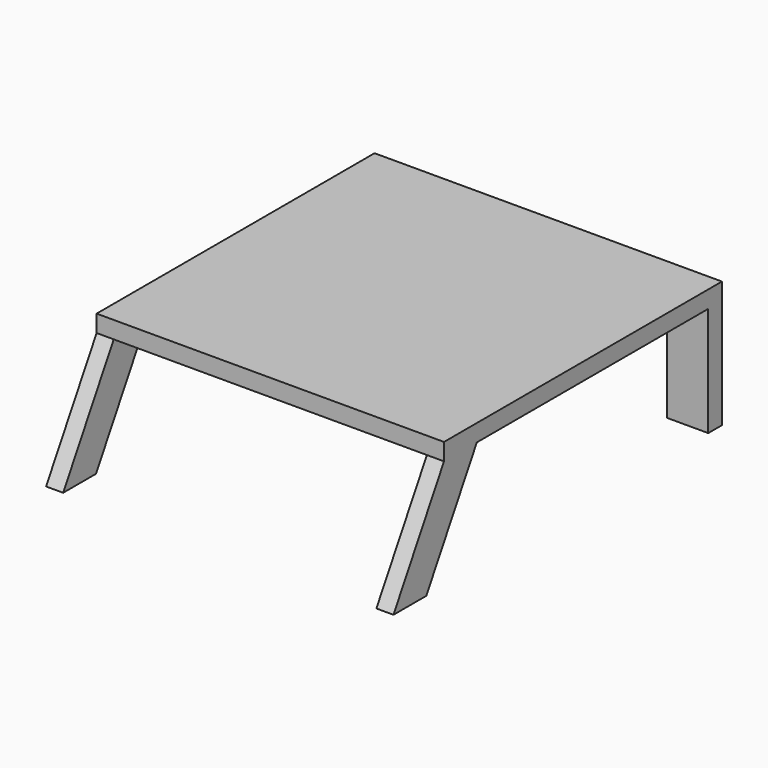
from build123d import *

# Parameters (mm, degrees)
F0_W     = 508
F0_H     = 508
F1_DEPTH = 25
F3_DEPTH = 25
F5_W     = 60
F5_H     = 160
F6_DEPTH = 25


with BuildPart() as f1:
    # F0 (on Top) → F1 (new body)
    with BuildSketch(Plane.XY):
        Rectangle(F0_W, F0_H)
    extrude(amount=-F1_DEPTH)

    # F2 (on face) → F3 (join)
    with BuildSketch(Plane(origin=(-254, 0, 0), x_dir=(0, -1, 0), z_dir=(-1, 0, 0))):
        Polygon((254, -25), (194, -25), (286.3760430703, -185), (346.3760430703, -185), align=None)
    extrude(amount=-F3_DEPTH)

    # F4: F1 across plane


with BuildPart() as f1_1:
    add(f1.part)
    add(f1.part.mirror(Plane.YZ))

    # F5 (on face) → F6 (join)
    with BuildSketch(Plane(origin=(0, 254, 0), x_dir=(-1, 0, 0), z_dir=(0, 1, 0))):
        with Locations((-224, -105)):
            Rectangle(F5_W, F5_H)
        with Locations((224, -105)):
            Rectangle(F5_W, F5_H)
    extrude(amount=-F6_DEPTH)


solid = f1_1.part
